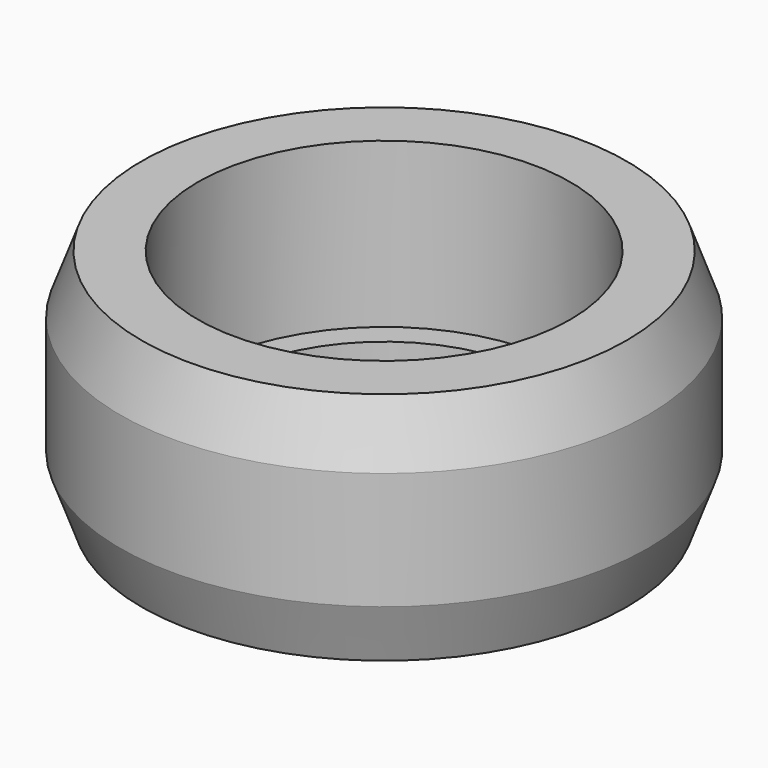
from build123d import *

# Parameters (mm, degrees)
F0_R     = 6.35
F0_R_2   = 5.5
F1_DEPTH = 2.41
F0_R_3   = 9
F2_DEPTH = 8
F3_SIZE2 = 0.72794
F3_SIZE  = 2
F4_SIZE2 = 0.72794
F4_SIZE  = 2


with BuildPart() as f1:
    # F0 (on Top) → F1 (new body)
    with BuildSketch(Plane.XY):
        Circle(F0_R)
        Circle(F0_R_2, mode=Mode.SUBTRACT)
    extrude(amount=F1_DEPTH)

    # F0 (on Top) → F2 (join)
    with BuildSketch(Plane.XY):
        Circle(F0_R_3)
        Circle(F0_R, mode=Mode.SUBTRACT)
    extrude(amount=F2_DEPTH)

    # F3
    f3_edges = [f1.edges().sort_by_distance(p)[0] for p in [
        (-9, 0, 0),
    ]]
    chamfer(f3_edges, length=F3_SIZE, length2=F3_SIZE2)

    # F4
    f4_edges = [f1.edges().sort_by_distance(p)[0] for p in [
        (-9, 0, 8),
    ]]
    chamfer(f4_edges, length=F4_SIZE, length2=F4_SIZE2)


solid = f1.part
